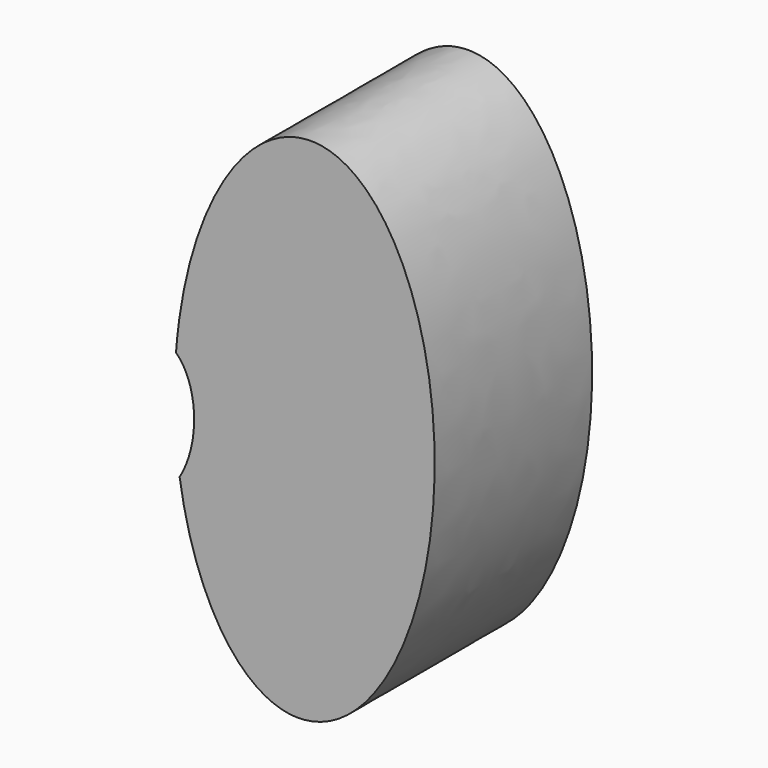
from build123d import *

# Parameters (mm, degrees)
F2_DEPTH = 50.1197427511


with BuildPart() as f2:
    # F1 (on face) → F2 (new body)
    with BuildSketch(Plane.XZ):
        with BuildLine():
            add(Edge.make_bspline(
                [(4.4504682513, 5.3040112259), (10.9004809366, -38.1211260463), (34.1561064124, -38.8794839382)],
                knots=[5.0570581969, 5.0570581969, 5.0570581969, 6.2831853072, 6.2831853072, 6.2831853072], degree=2, weights=[1, 0.8178891632, 1]))
            add(Edge.make_bspline(
                [(34.1561064124, -38.8794839382), (109.4295558814, -41.3341250536), (62.061767901, 69.6407504735), (14.6939799205, 180.6156260006), (3.5217212873, 32.891802437)],
                knots=[0, 0, 0, 2.3139761853, 2.3139761853, 4.6279523705, 4.6279523705, 4.6279523705], degree=2, weights=[1, 0.4020990399, 1, 0.4020990399, 1]))
            add(Edge.make_bspline(
                [(3.5217212873, 32.891802437), (9.278436603, 27.3418305298), (9.7413098769, 14.2778340166), (4.4504682513, 5.3040112259)],
                knots=[0.7246798201, 0.7246798201, 0.7246798201, 0.7246798201, 0.9494304731, 0.9494304731, 0.9494304731, 0.9494304731], degree=3))
        make_face()
    extrude(amount=F2_DEPTH)


solid = f2.part
